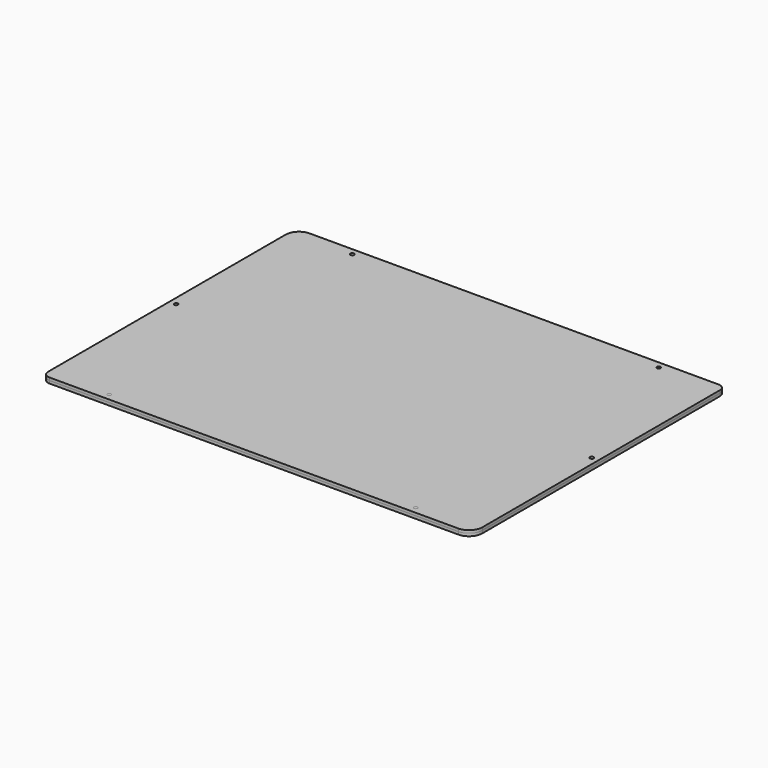
from build123d import *

# Parameters (mm, degrees)
F9_R      = 2.1
F9_W      = 70.5
F9_H      = 39.5
F9_R_2    = 1.55
F9_R_3    = 11.8
F9_R_4    = 1.75
F9_R_5    = 9.75
F10_DEPTH = 3
F7_R      = 1.55
F11_DEPTH = 3
F12_DEPTH = 3
F13_W     = 180
F13_H     = 70
F13_R     = 1.55
F14_DEPTH = 3
F15_R     = 1.55
F16_DEPTH = 3
F1_R      = 2.1
F17_DEPTH = 3


with BuildPart() as f10:
    # F9 (on Top) → F10 (new body)
    with BuildSketch(Plane.XY):
        with BuildLine():
            Line((229.5, 162.5), (-217, 162.5))
            ThreePointArc((-217, 162.5), (-220.5355339059, 161.0355339059), (-222, 157.5))
            Line((-222, 157.5), (-222, 145))
            ThreePointArc((-222, 145), (-224.9289321881, 137.9289321881), (-232, 135))
            Line((-232, 135), (-237, 135))
            ThreePointArc((-237, 135), (-240.5355339059, 133.5355339059), (-242, 130))
            Line((-242, 130), (-242, -184))
            ThreePointArc((-242, -184), (-239.8033008589, -189.3033008589), (-234.5, -191.5))
            Line((-234.5, -191.5), (222, -191.5))
            ThreePointArc((222, -191.5), (232.6066017178, -187.1066017178), (237, -176.5))
            Line((237, -176.5), (237, 155))
            ThreePointArc((237, 155), (234.8033008589, 160.3033008589), (229.5, 162.5))
        make_face()
        with Locations((-173.5, -184)):
            Circle(F9_R, mode=Mode.SUBTRACT)
        Polygon((-16, -141.5), (-16, -166.5), (-46, -166.5), (-46, -169.5), (-66, -169.5), (-66, -166.5), (-146, -166.5), (-146, -169.5), (-166, -169.5), (-166, -166.5), (-196, -166.5), (-196, -141.5), (-199, -141.5), (-199, -121.5), (-196, -121.5), (-196, -96.5), (-166, -96.5), (-166, -93.5), (-146, -93.5), (-146, -96.5), (-66, -96.5), (-66, -93.5), (-46, -93.5), (-46, -96.5), (-16, -96.5), (-16, -121.5), (-13, -121.5), (-13, -141.5), align=None, mode=Mode.SUBTRACT)
        with Locations((-198.75, -47.75)):
            Rectangle(F9_W, F9_H, mode=Mode.SUBTRACT)
        Polygon((16, -121.5), (16, -96.5), (46, -96.5), (46, -93.5), (66, -93.5), (66, -96.5), (146, -96.5), (146, -93.5), (166, -93.5), (166, -96.5), (196, -96.5), (196, -121.5), (199, -121.5), (199, -141.5), (196, -141.5), (196, -166.5), (166, -166.5), (166, -169.5), (146, -169.5), (146, -166.5), (66, -166.5), (66, -169.5), (46, -169.5), (46, -166.5), (16, -166.5), (16, -141.5), (13, -141.5), (13, -121.5), align=None, mode=Mode.SUBTRACT)
        with Locations((168.5, -184)):
            Circle(F9_R, mode=Mode.SUBTRACT)
        with BuildLine():
            Line((198, -38), (186, -38))
            Line((186, -38), (186, -17))
            ThreePointArc((186, -17), (192, -11), (198, -17))
            Line((198, -17), (198, -38))
        make_face(mode=Mode.SUBTRACT)
        with Locations((-234.5, -14.5)):
            Circle(F9_R, mode=Mode.SUBTRACT)
        with BuildLine():
            ThreePointArc((-200.95, 18.4447222183), (-195.5877157819, 16.173500577), (-192.4, 11.3))
            Line((-192.4, 11.3), (-191.7, 11.3))
            Line((-191.7, 11.3), (-191.7, 5.7))
            Line((-191.7, 5.7), (-192.4, 5.7))
            ThreePointArc((-192.4, 5.7), (-195.5877157819, 0.826499423), (-200.95, -1.4447222183))
            Line((-200.95, -1.4447222183), (-200.95, -2.5))
            Line((-200.95, -2.5), (-203.05, -2.5))
            Line((-203.05, -2.5), (-203.05, -1.4447222183))
            ThreePointArc((-203.05, -1.4447222183), (-208.4122842181, 0.826499423), (-211.6, 5.7))
            Line((-211.6, 5.7), (-212.3, 5.7))
            Line((-212.3, 5.7), (-212.3, 11.3))
            Line((-212.3, 11.3), (-211.6, 11.3))
            ThreePointArc((-211.6, 11.3), (-208.4122842181, 16.173500577), (-203.05, 18.4447222183))
            Line((-203.05, 18.4447222183), (-203.05, 19.5))
            Line((-203.05, 19.5), (-200.95, 19.5))
            Line((-200.95, 19.5), (-200.95, 18.4447222183))
        make_face(mode=Mode.SUBTRACT)
        with BuildLine():
            ThreePointArc((-211.6, 37.3), (-208.4122842181, 42.173500577), (-203.05, 44.4447222183))
            Line((-203.05, 44.4447222183), (-203.05, 45.5))
            Line((-203.05, 45.5), (-200.95, 45.5))
            Line((-200.95, 45.5), (-200.95, 44.4447222183))
            ThreePointArc((-200.95, 44.4447222183), (-195.5877157819, 42.173500577), (-192.4, 37.3))
            Line((-192.4, 37.3), (-191.7, 37.3))
            Line((-191.7, 37.3), (-191.7, 31.7))
            Line((-191.7, 31.7), (-192.4, 31.7))
            ThreePointArc((-192.4, 31.7), (-195.5877157819, 26.826499423), (-200.95, 24.5552777817))
            Line((-200.95, 24.5552777817), (-200.95, 23.5))
            Line((-200.95, 23.5), (-203.05, 23.5))
            Line((-203.05, 23.5), (-203.05, 24.5552777817))
            ThreePointArc((-203.05, 24.5552777817), (-208.4122842181, 26.826499423), (-211.6, 31.7))
            Line((-211.6, 31.7), (-212.3, 31.7))
            Line((-212.3, 31.7), (-212.3, 37.3))
            Line((-212.3, 37.3), (-211.6, 37.3))
        make_face(mode=Mode.SUBTRACT)
        with BuildLine():
            ThreePointArc((-192.4, 57.7), (-195.5877157819, 52.826499423), (-200.95, 50.5552777817))
            Line((-200.95, 50.5552777817), (-200.95, 49.5))
            Line((-200.95, 49.5), (-203.05, 49.5))
            Line((-203.05, 49.5), (-203.05, 50.5552777817))
            ThreePointArc((-203.05, 50.5552777817), (-208.4122842181, 52.826499423), (-211.6, 57.7))
            Line((-211.6, 57.7), (-212.3, 57.7))
            Line((-212.3, 57.7), (-212.3, 63.3))
            Line((-212.3, 63.3), (-211.6, 63.3))
            ThreePointArc((-211.6, 63.3), (-208.4122842181, 68.173500577), (-203.05, 70.4447222183))
            Line((-203.05, 70.4447222183), (-203.05, 71.5))
            Line((-203.05, 71.5), (-200.95, 71.5))
            Line((-200.95, 71.5), (-200.95, 70.4447222183))
            ThreePointArc((-200.95, 70.4447222183), (-195.5877157819, 68.173500577), (-192.4, 63.3))
            Line((-192.4, 63.3), (-191.7, 63.3))
            Line((-191.7, 63.3), (-191.7, 57.7))
            Line((-191.7, 57.7), (-192.4, 57.7))
        make_face(mode=Mode.SUBTRACT)
        Polygon((149.9, 111.4), (149.9, 85.5), (152.9, 85.5), (152.9, 55.5), (149.9, 55.5), (149.9, -10.5), (152.9, -10.5), (152.9, -40.5), (149.9, -40.5), (149.9, -66.4), (112.5, -66.4), (112.5, -69.4), (82.5, -69.4), (82.5, -66.4), (12.5, -66.4), (12.5, -69.4), (-2.5, -69.4), (-17.5, -69.4), (-17.5, -66.4), (-87.5, -66.4), (-87.5, -69.4), (-117.5, -69.4), (-117.5, -66.4), (-154.9, -66.4), (-154.9, -40.5), (-157.9, -40.5), (-157.9, -10.5), (-154.9, -10.5), (-154.9, 55.5), (-157.9, 55.5), (-157.9, 85.5), (-154.9, 85.5), (-154.9, 111.4), (-117.5, 111.4), (-117.5, 114.4), (-87.5, 114.4), (-87.5, 111.4), (-17.5, 111.4), (-17.5, 114.4), (-2.5, 114.4), (12.5, 114.4), (12.5, 111.4), (82.5, 111.4), (82.5, 114.4), (112.5, 114.4), (112.5, 111.4), align=None, mode=Mode.SUBTRACT)
        with BuildLine():
            ThreePointArc((-211.6, 89.3), (-208.4122842181, 94.173500577), (-203.05, 96.4447222183))
            Line((-203.05, 96.4447222183), (-203.05, 97.5))
            Line((-203.05, 97.5), (-200.95, 97.5))
            Line((-200.95, 97.5), (-200.95, 96.4447222183))
            ThreePointArc((-200.95, 96.4447222183), (-195.5877157819, 94.173500577), (-192.4, 89.3))
            Line((-192.4, 89.3), (-191.7, 89.3))
            Line((-191.7, 89.3), (-191.7, 83.7))
            Line((-191.7, 83.7), (-192.4, 83.7))
            ThreePointArc((-192.4, 83.7), (-195.5877157819, 78.826499423), (-200.95, 76.5552777817))
            Line((-200.95, 76.5552777817), (-200.95, 75.5))
            Line((-200.95, 75.5), (-203.05, 75.5))
            Line((-203.05, 75.5), (-203.05, 76.5552777817))
            ThreePointArc((-203.05, 76.5552777817), (-208.4122842181, 78.826499423), (-211.6, 83.7))
            Line((-211.6, 83.7), (-212.3, 83.7))
            Line((-212.3, 83.7), (-212.3, 89.3))
            Line((-212.3, 89.3), (-211.6, 89.3))
        make_face(mode=Mode.SUBTRACT)
        with BuildLine():
            ThreePointArc((-203.05, 102.5552777817), (-208.4122842181, 104.826499423), (-211.6, 109.7))
            Line((-211.6, 109.7), (-212.3, 109.7))
            Line((-212.3, 109.7), (-212.3, 115.3))
            Line((-212.3, 115.3), (-211.6, 115.3))
            ThreePointArc((-211.6, 115.3), (-208.4122842181, 120.173500577), (-203.05, 122.4447222183))
            Line((-203.05, 122.4447222183), (-203.05, 123.5))
            Line((-203.05, 123.5), (-200.95, 123.5))
            Line((-200.95, 123.5), (-200.95, 122.4447222183))
            ThreePointArc((-200.95, 122.4447222183), (-195.5877157819, 120.173500577), (-192.4, 115.3))
            Line((-192.4, 115.3), (-191.7, 115.3))
            Line((-191.7, 115.3), (-191.7, 109.7))
            Line((-191.7, 109.7), (-192.4, 109.7))
            ThreePointArc((-192.4, 109.7), (-195.5877157819, 104.826499423), (-200.95, 102.5552777817))
            Line((-200.95, 102.5552777817), (-200.95, 101.5))
            Line((-200.95, 101.5), (-203.05, 101.5))
            Line((-203.05, 101.5), (-203.05, 102.5552777817))
        make_face(mode=Mode.SUBTRACT)
        with Locations((-173.5, 155)):
            Circle(F9_R, mode=Mode.SUBTRACT)
        with Locations((229.5, -14.5)):
            Circle(F9_R, mode=Mode.SUBTRACT)
        with Locations((157.5, 30.5)):
            Circle(F9_R_2, mode=Mode.SUBTRACT)
        with Locations((169.5, 40)):
            Circle(F9_R_3, mode=Mode.SUBTRACT)
        with Locations((157.5, 61.5)):
            Circle(F9_R_2, mode=Mode.SUBTRACT)
        with Locations((169.5, 71)):
            Circle(F9_R_3, mode=Mode.SUBTRACT)
        with Locations((192.5, 30.5)):
            Circle(F9_R_2, mode=Mode.SUBTRACT)
        with Locations((204.5, 40)):
            Circle(F9_R_3, mode=Mode.SUBTRACT)
        with Locations((181.5, 49.5)):
            Circle(F9_R_2, mode=Mode.SUBTRACT)
        with Locations((216.5, 49.5)):
            Circle(F9_R_2, mode=Mode.SUBTRACT)
        with Locations((192.5, 61.5)):
            Circle(F9_R_2, mode=Mode.SUBTRACT)
        with Locations((204.5, 71)):
            Circle(F9_R_3, mode=Mode.SUBTRACT)
        with Locations((157.5, 100)):
            Circle(F9_R_2, mode=Mode.SUBTRACT)
        with Locations((169.5, 109.5)):
            Circle(F9_R_3, mode=Mode.SUBTRACT)
        with Locations((181.5, 80.5)):
            Circle(F9_R_2, mode=Mode.SUBTRACT)
        with Locations((216.5, 80.5)):
            Circle(F9_R_2, mode=Mode.SUBTRACT)
        with Locations((218.25, 91.1746824527)):
            Circle(F9_R_4, mode=Mode.SUBTRACT)
        with Locations((199.5, 102)):
            Circle(F9_R_4, mode=Mode.SUBTRACT)
        with Locations((212, 102)):
            Circle(F9_R_5, mode=Mode.SUBTRACT)
        with Locations((218.25, 112.8253175473)):
            Circle(F9_R_4, mode=Mode.SUBTRACT)
        with Locations((168.5, 155)):
            Circle(F9_R, mode=Mode.SUBTRACT)
        with Locations((181.5, 119)):
            Circle(F9_R_2, mode=Mode.SUBTRACT)
    extrude(amount=-F10_DEPTH)


with BuildPart() as f11:
    # F7 (on Top) → F11 (new body)
    with BuildSketch(Plane.XY):
        with BuildLine():
            Line((-132.25, 84.25), (-132.25, -39.25))
            ThreePointArc((-132.25, -39.25), (-121.9987373415, -63.9987373415), (-97.25, -74.25))
            Line((-97.25, -74.25), (92.25, -74.25))
            ThreePointArc((92.25, -74.25), (116.9987373415, -63.9987373415), (127.25, -39.25))
            Line((127.25, -39.25), (127.25, 84.25))
            ThreePointArc((127.25, 84.25), (116.9987373415, 108.9987373415), (92.25, 119.25))
            Line((92.25, 119.25), (-97.25, 119.25))
            ThreePointArc((-97.25, 119.25), (-121.9987373415, 108.9987373415), (-132.25, 84.25))
        make_face()
        with Locations((-112.8063510479, -54.8063473243)):
            Circle(F7_R, mode=Mode.SUBTRACT)
        with Locations((-2.5, -61.25)):
            Circle(F7_R, mode=Mode.SUBTRACT)
        with Locations((107.8063510479, -54.8063473243)):
            Circle(F7_R, mode=Mode.SUBTRACT)
        with Locations((-119.25, 22.5)):
            Circle(F7_R, mode=Mode.SUBTRACT)
        with Locations((-112.8063510479, 99.8063473243)):
            Circle(F7_R, mode=Mode.SUBTRACT)
        with BuildLine():
            Line((92.25, -49.25), (-97.25, -49.25))
            ThreePointArc((-97.25, -49.25), (-104.3210678119, -46.3210678119), (-107.25, -39.25))
            Line((-107.25, -39.25), (-107.25, 84.25))
            ThreePointArc((-107.25, 84.25), (-104.3210678119, 91.3210678119), (-97.25, 94.25))
            Line((-97.25, 94.25), (92.25, 94.25))
            ThreePointArc((92.25, 94.25), (99.3210678119, 91.3210678119), (102.25, 84.25))
            Line((102.25, 84.25), (102.25, -39.25))
            ThreePointArc((102.25, -39.25), (99.3210678119, -46.3210678119), (92.25, -49.25))
        make_face(mode=Mode.SUBTRACT)
        with Locations((114.25, 22.5)):
            Circle(F7_R, mode=Mode.SUBTRACT)
        with Locations((-2.5, 106.25)):
            Circle(F7_R, mode=Mode.SUBTRACT)
        with Locations((107.8063510479, 99.8063473243)):
            Circle(F7_R, mode=Mode.SUBTRACT)
    extrude(amount=F11_DEPTH)


with BuildPart() as f12:
    # F9 (on Top) → F12 (new body)
    with BuildSketch(Plane.XY):
        Polygon((149.9, 55.5), (149.9, 85.5), (149.9, 111.4), (112.5, 111.4), (82.5, 111.4), (12.5, 111.4), (-17.5, 111.4), (-87.5, 111.4), (-117.5, 111.4), (-154.9, 111.4), (-154.9, 85.5), (-154.9, 55.5), (-154.9, -10.5), (-154.9, -40.5), (-154.9, -66.4), (-117.5, -66.4), (-87.5, -66.4), (-17.5, -66.4), (12.5, -66.4), (82.5, -66.4), (112.5, -66.4), (149.9, -66.4), (149.9, -40.5), (149.9, -10.5), align=None)
        with Locations((-2.5, -61.25)):
            Circle(F9_R_2, mode=Mode.SUBTRACT)
        with Locations((-112.8063510479, -54.8063473243)):
            Circle(F9_R_2, mode=Mode.SUBTRACT)
        with Locations((107.8063510479, -54.8063473243)):
            Circle(F9_R_2, mode=Mode.SUBTRACT)
        with Locations((-119.25, 22.5)):
            Circle(F9_R_2, mode=Mode.SUBTRACT)
        with Locations((-112.8063510479, 99.8063473243)):
            Circle(F9_R_2, mode=Mode.SUBTRACT)
        with Locations((-2.5, 106.25)):
            Circle(F9_R_2, mode=Mode.SUBTRACT)
        with Locations((114.25, 22.5)):
            Circle(F9_R_2, mode=Mode.SUBTRACT)
        with Locations((107.8063510479, 99.8063473243)):
            Circle(F9_R_2, mode=Mode.SUBTRACT)
    extrude(amount=-F12_DEPTH)


with BuildPart() as f14:
    # F13 (on Top) → F14 (new body)
    with BuildSketch(Plane.XY):
        with Locations((-106, -131.5)):
            Rectangle(F13_W, F13_H)
        with Locations((-151, -131.5)):
            Circle(F13_R, mode=Mode.SUBTRACT)
        with Locations((-61, -131.5)):
            Circle(F13_R, mode=Mode.SUBTRACT)
    extrude(amount=-F14_DEPTH)


with BuildPart() as f14b:
    # F13 (on Top) → F14, piece 2 (new body)
    with BuildSketch(Plane.XY):
        with Locations((106, -131.5)):
            Rectangle(F13_W, F13_H)
        with Locations((61, -131.5)):
            Circle(F13_R, mode=Mode.SUBTRACT)
        with Locations((151, -131.5)):
            Circle(F13_R, mode=Mode.SUBTRACT)
    extrude(amount=-F14_DEPTH)


with BuildPart() as f16:
    # F15 (on Top) → F16 (new body)
    with BuildSketch(Plane.XY):
        with BuildLine():
            Line((237, -86.5), (-242, -86.5))
            Line((-242, -86.5), (-242, -184))
            ThreePointArc((-242, -184), (-239.8033008589, -189.3033008589), (-234.5, -191.5))
            Line((-234.5, -191.5), (222, -191.5))
            ThreePointArc((222, -191.5), (232.6066017178, -187.1066017178), (237, -176.5))
            Line((237, -176.5), (237, -86.5))
        make_face()
        with Locations((-151, -131.5)):
            Circle(F15_R, mode=Mode.SUBTRACT)
        with Locations((-61, -131.5)):
            Circle(F15_R, mode=Mode.SUBTRACT)
        with Locations((61, -131.5)):
            Circle(F15_R, mode=Mode.SUBTRACT)
        with Locations((151, -131.5)):
            Circle(F15_R, mode=Mode.SUBTRACT)
    extrude(amount=F16_DEPTH)


with BuildPart() as f17:
    # F1 (on Top) → F17 (new body)
    with BuildSketch(Plane.XY):
        with BuildLine():
            Line((237, -176.5), (237, 155))
            ThreePointArc((237, 155), (234.8033008589, 160.3033008589), (229.5, 162.5))
            Line((229.5, 162.5), (-217, 162.5))
            ThreePointArc((-217, 162.5), (-220.5355339059, 161.0355339059), (-222, 157.5))
            Line((-222, 157.5), (-222, 145))
            ThreePointArc((-222, 145), (-224.9289321881, 137.9289321881), (-232, 135))
            Line((-232, 135), (-237, 135))
            ThreePointArc((-237, 135), (-240.5355339059, 133.5355339059), (-242, 130))
            Line((-242, 130), (-242, -184))
            ThreePointArc((-242, -184), (-239.8033008589, -189.3033008589), (-234.5, -191.5))
            Line((-234.5, -191.5), (222, -191.5))
            ThreePointArc((222, -191.5), (232.6066017178, -187.1066017178), (237, -176.5))
        make_face()
        with Locations((-173.5, -184)):
            Circle(F1_R, mode=Mode.SUBTRACT)
        with Locations((168.5, -184)):
            Circle(F1_R, mode=Mode.SUBTRACT)
        with Locations((-234.5, -14.5)):
            Circle(F1_R, mode=Mode.SUBTRACT)
        with Locations((-173.5, 155)):
            Circle(F1_R, mode=Mode.SUBTRACT)
        with Locations((229.5, -14.5)):
            Circle(F1_R, mode=Mode.SUBTRACT)
        with Locations((168.5, 155)):
            Circle(F1_R, mode=Mode.SUBTRACT)
        with BuildLine():
            ThreePointArc((-222, 157.5), (-220.5355339059, 161.0355339059), (-217, 162.5))
            Line((-217, 162.5), (-227, 162.5))
            ThreePointArc((-227, 162.5), (-237.6066017178, 158.1066017178), (-242, 147.5))
            Line((-242, 147.5), (-242, 130))
            ThreePointArc((-242, 130), (-240.5355339059, 133.5355339059), (-237, 135))
            Line((-237, 135), (-232, 135))
            ThreePointArc((-232, 135), (-224.9289321881, 137.9289321881), (-222, 145))
            Line((-222, 145), (-222, 157.5))
        make_face()
    extrude(amount=F17_DEPTH)


solid = Compound([f10.part, f11.part, f12.part, f14.part, f14b.part, f16.part, f17.part])
